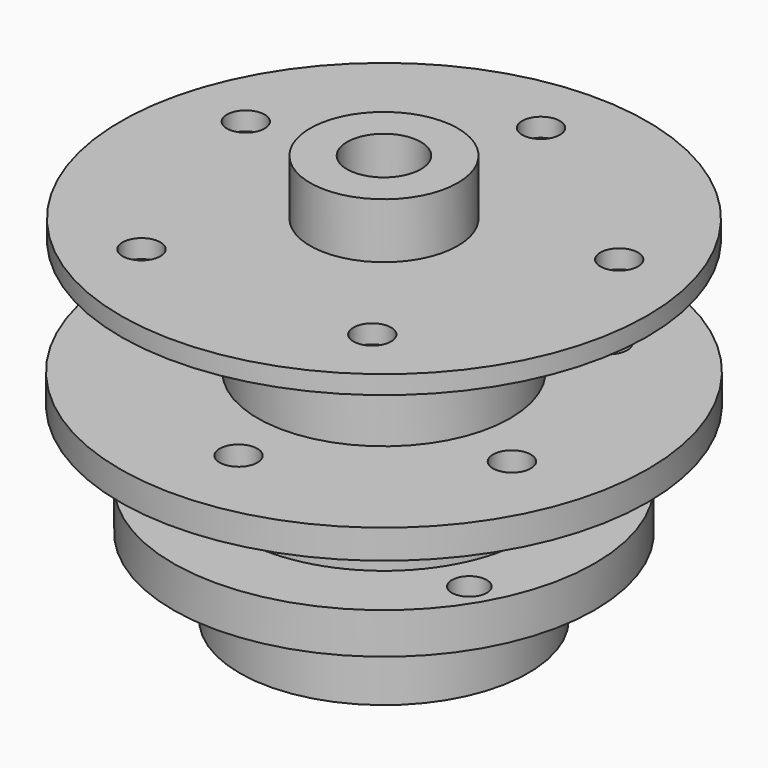
from build123d import *

# Parameters (mm, degrees)
SKETCH_R              = 90.7542
SKETCH_R_2            = 43.42
PAD_DEPTH             = 10
SKETCH001_R           = 6.5
HOLE_DEPTH            = 25
POLARPATTERN_COUNT    = 5
SKETCH002_R           = 43.42
SKETCH002_R_2         = 37.55
PAD001_DEPTH          = 30
SKETCH003_W           = 28.935
SKETCH003_H           = 65.1
SKETCH004_R           = 72.5
SKETCH004_R_2         = 49.64
PAD002_DEPTH          = 14.1
SKETCH006_R           = 6
HOLE001_DEPTH         = 25
POLARPATTERN001_COUNT = 3
SKETCH007_R           = 90.5
SKETCH007_R_2         = 25.4
PAD003_DEPTH          = 6.35
SKETCH008_R           = 6.5
HOLE002_DEPTH         = 10
POLARPATTERN002_COUNT = 5
SKETCH009_R           = 25.4
SKETCH009_R_2         = 12.7
PAD004_DEPTH          = 25.4


with BuildPart() as flange:
    # Sketch → Pad (new body)
    with BuildSketch(Plane.XY):
        Circle(SKETCH_R)
        Circle(SKETCH_R_2, mode=Mode.SUBTRACT)
    extrude(amount=PAD_DEPTH)

    # Sketch001 → Hole (cut)
    with BuildSketch(Plane.XY):
        with Locations((0, -62.5)):
            Circle(SKETCH001_R)
    hole = extrude(amount=HOLE_DEPTH, mode=Mode.SUBTRACT)

    # PolarPattern: Hole ×5 about axis
    polarpattern_axis = Axis((0, 0, 0), (0, 0, 1))
    for i in range(1, POLARPATTERN_COUNT):
        add(hole.rotate(polarpattern_axis, i * 360 / POLARPATTERN_COUNT), mode=Mode.SUBTRACT)

    # Sketch002 → Pad001 (join)
    with BuildSketch(Plane.XY):
        Circle(SKETCH002_R)
        Circle(SKETCH002_R_2, mode=Mode.SUBTRACT)
    extrude(amount=PAD001_DEPTH)


with BuildPart() as body:
    # Sketch003 → Revolution (revolve)
    with BuildSketch(Plane.XZ):
        with Locations((-35.1725, -32.55)):
            Rectangle(SKETCH003_W, SKETCH003_H)
    revolve(axis=Axis((0, 0, 0), (0, 0, 1)))


with BuildPart() as body002:
    # Sketch004 → Pad002 (new body)
    with BuildSketch(Plane.XY.offset(-24.46)):
        Circle(SKETCH004_R)
        Circle(SKETCH004_R_2, mode=Mode.SUBTRACT)
    extrude(amount=-PAD002_DEPTH)

    # Sketch006 → Hole001 (cut)
    with BuildSketch(Plane.XY.offset(-24)):
        with Locations((0, 63.005)):
            Circle(SKETCH006_R)
    hole001 = extrude(amount=-HOLE001_DEPTH, mode=Mode.SUBTRACT)

    # PolarPattern001: Hole001 ×3 about axis
    polarpattern001_axis = Axis((0, 0, -24), (0, 0, 1))
    for i in range(1, POLARPATTERN001_COUNT):
        add(hole001.rotate(polarpattern001_axis, i * 360 / POLARPATTERN001_COUNT), mode=Mode.SUBTRACT)


with BuildPart() as torqueplate:
    # Sketch007 → Pad003 (new body)
    with BuildSketch(Plane.XY):
        Circle(SKETCH007_R)
        Circle(SKETCH007_R_2, mode=Mode.SUBTRACT)
    extrude(amount=PAD003_DEPTH)

    # Sketch008 → Hole002 (cut)
    with BuildSketch(Plane.XY):
        with Locations((0, 67.5)):
            Circle(SKETCH008_R)
    hole002 = extrude(amount=HOLE002_DEPTH, mode=Mode.SUBTRACT)

    # PolarPattern002: Hole002 ×5 about axis
    polarpattern002_axis = Axis((0, 0, 0), (0, 0, 1))
    for i in range(1, POLARPATTERN002_COUNT):
        add(hole002.rotate(polarpattern002_axis, i * 360 / POLARPATTERN002_COUNT), mode=Mode.SUBTRACT)

    # Sketch009 → Pad004 (join)
    with BuildSketch(Plane.XY):
        Circle(SKETCH009_R)
        Circle(SKETCH009_R_2, mode=Mode.SUBTRACT)
    extrude(amount=PAD004_DEPTH)


with BuildPart() as torqueplate_1:
    # Body003 placement: moved
    add(torqueplate.part.moved(Location((0, 0, 50))))


solid = Compound([flange.part, body.part, body002.part, torqueplate_1.part])
